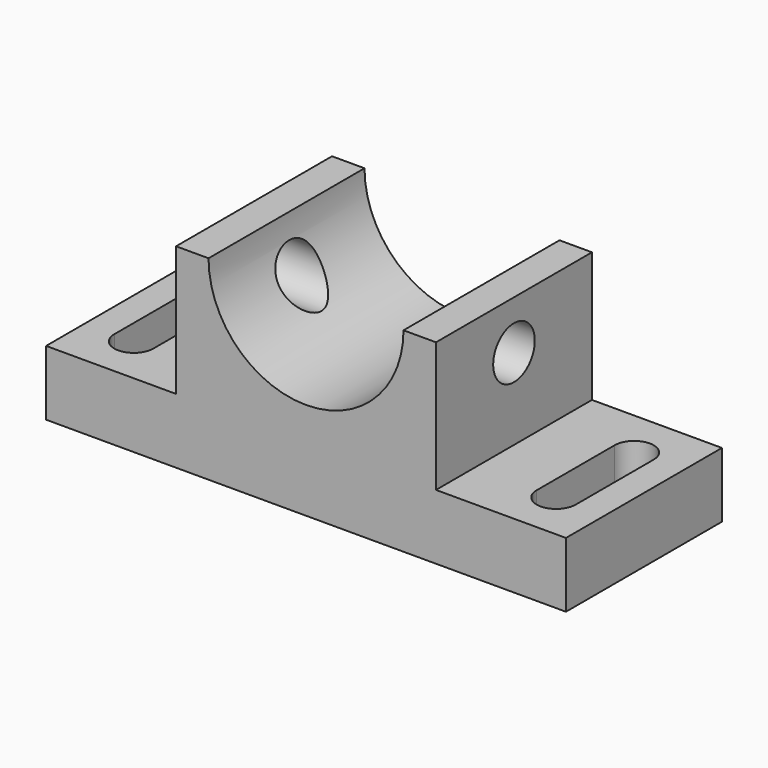
from build123d import *

# Parameters (mm, degrees)
F1_DEPTH = 600
F2_R     = 80
F3_DEPTH = 1200.001
F5_DEPTH = 200.001


with BuildPart() as f1:
    # F0 (on Front) → F1 (new body)
    with BuildSketch(Plane.XZ):
        with BuildLine():
            Line((-400, 100), (-800, 100))
            Line((-800, 100), (-800, -100))
            Line((-800, -100), (800, -100))
            Line((800, -100), (800, 100))
            Line((800, 100), (400, 100))
            Line((400, 100), (400, 500))
            Line((400, 500), (300, 500))
            ThreePointArc((300, 500), (0, 200), (-300, 500))
            Line((-300, 500), (-400, 500))
            Line((-400, 500), (-400, 100))
        make_face()
    extrude(amount=F1_DEPTH)

    # F2 (on face) → F3 (cut, through all)
    with BuildSketch(Plane(origin=(-400, 0, 0), x_dir=(0, -1, 0), z_dir=(-1, 0, 0))):
        with Locations((300, 350)):
            Circle(F2_R)
    extrude(amount=-F3_DEPTH, mode=Mode.SUBTRACT)

    # F4 (on face) → F5 (cut, through all)
    with BuildSketch(Plane.XY.offset(100)):
        with BuildLine():
            Line((-710, -150), (-710, -450))
            ThreePointArc((-710, -450), (-650, -510), (-590, -450))
            Line((-590, -450), (-590, -150))
            ThreePointArc((-590, -150), (-650, -90), (-710, -150))
        make_face()
        with BuildLine():
            Line((590, -150), (590, -450))
            ThreePointArc((590, -450), (650, -510), (710, -450))
            Line((710, -450), (710, -150))
            ThreePointArc((710, -150), (650, -90), (590, -150))
        make_face()
    extrude(amount=-F5_DEPTH, mode=Mode.SUBTRACT)


solid = f1.part
